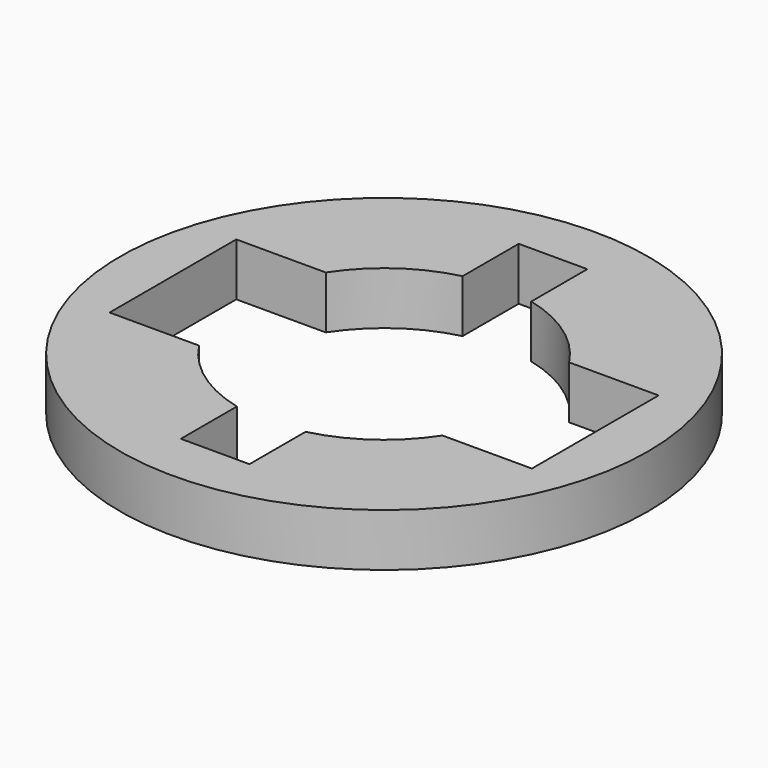
from build123d import *

# Parameters (mm, degrees)
SKETCH030_R     = 10
PAD016_DEPTH    = 2
SKETCH031_R     = 5.5
POCKET011_DEPTH = 2.001
SKETCH032_W     = 2.6
SKETCH032_H     = 16
POCKET012_DEPTH = 2.001
SKETCH033_W     = 16
SKETCH033_H     = 6
POCKET013_DEPTH = 2.001


with BuildPart() as part:
    # Sketch030 → Pad016 (new body)
    with BuildSketch(Plane.XY):
        Circle(SKETCH030_R)
    extrude(amount=PAD016_DEPTH)

    # Sketch031 → Pocket011 (cut, through all)
    with BuildSketch(Plane.XY):
        Circle(SKETCH031_R)
    extrude(amount=POCKET011_DEPTH, mode=Mode.SUBTRACT)

    # Sketch032 → Pocket012 (cut, through all)
    with BuildSketch(Plane.XY):
        Rectangle(SKETCH032_W, SKETCH032_H)
    extrude(amount=POCKET012_DEPTH, mode=Mode.SUBTRACT)

    # Sketch033 → Pocket013 (cut, through all)
    with BuildSketch(Plane.XY):
        Rectangle(SKETCH033_W, SKETCH033_H)
    extrude(amount=POCKET013_DEPTH, mode=Mode.SUBTRACT)


solid = part.part
